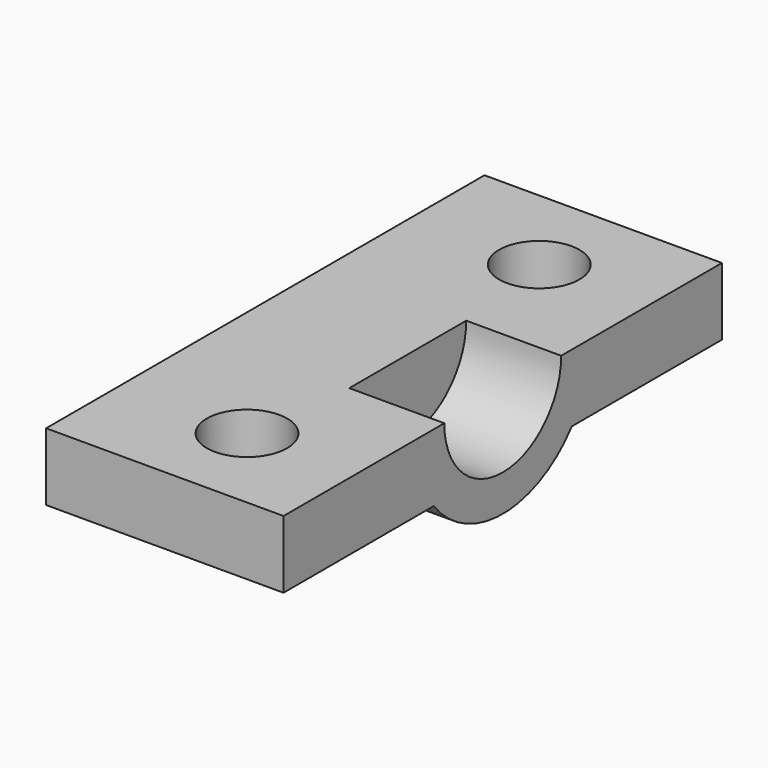
from build123d import *

# Parameters (mm, degrees)
CYLINDER073_R          = 2.2
CYLINDER073_DEPTH      = 20
CYLINDER074_R          = 2.2
CYLINDER074_DEPTH      = 20
CYLINDER072_R          = 4
CYLINDER072_DEPTH      = 6.5
CYLINDER071_W          = 6
CYLINDER071_H          = 11
CYLINDER071_ANGLE      = 180
BOX054_W               = 30
BOX054_H               = 3.7
BOX054_DEPTH           = 13
CUT083_ROLL_ANGLE      = 90
CUT083_PLACEMENT_ANGLE = 90


with BuildPart() as zylinder062:
    # Cylinder073 → Cylinder073 (new body)
    with BuildSketch(Plane(origin=(-10, 9, 5), x_dir=(1, 0, 0), z_dir=(0, -1, 0))):
        Circle(CYLINDER073_R)
    extrude(amount=CYLINDER073_DEPTH)


with BuildPart() as zylinder063:
    # Cylinder074 → Cylinder074 (new body)
    with BuildSketch(Plane(origin=(10, 9, 5), x_dir=(1, 0, 0), z_dir=(0, -1, 0))):
        Circle(CYLINDER074_R)
    extrude(amount=CYLINDER074_DEPTH)


with BuildPart() as zylinder061:
    # Cylinder072 → Cylinder072 (new body)
    with BuildSketch(Plane.XY.offset(5.8)):
        Circle(CYLINDER072_R)
    extrude(amount=CYLINDER072_DEPTH)


with BuildPart() as zylinder060:
    # Cylinder071 → Cylinder071 (revolve)
    with BuildSketch(Plane(origin=(0, 0, 0), x_dir=(-1, 0, 0), z_dir=(0, 1, 0))):
        with Locations((3, 5.5)):
            Rectangle(CYLINDER071_W, CYLINDER071_H)
    revolve(axis=Axis((0, 0, 0), (0, 0, 1)), revolution_arc=CYLINDER071_ANGLE)


with BuildPart() as y_drive_mount_top001:
    # Box054 → Box054 (new body)
    with BuildSketch(Plane(origin=(-15, -3.7, -2), x_dir=(1, 0, 0), z_dir=(0, 0, 1))):
        with Locations((15, 1.85)):
            Rectangle(BOX054_W, BOX054_H)
    extrude(amount=BOX054_DEPTH)

    # Fusion041: union Zylinder060
    add(zylinder060.part)

    # Cut081: cut Zylinder061
    add(zylinder061.part, mode=Mode.SUBTRACT)

    # Cut082: cut Zylinder063
    add(zylinder063.part, mode=Mode.SUBTRACT)

    # Cut083: cut Zylinder062
    add(zylinder062.part, mode=Mode.SUBTRACT)


with BuildPart() as y_drive_mount_top001_1:
    # Cut083 roll: moved
    add(y_drive_mount_top001.part.rotate(Axis((0, 0, 0), (1, 0, 0)), CUT083_ROLL_ANGLE))


with BuildPart() as y_drive_mount_top001_2:
    # Cut083 placement: moved
    add(y_drive_mount_top001_1.part.moved(Location((-32.75, 18.85, 53.2))).rotate(Axis((-32.75, 18.85, 53.2), (0, 0, 1)), CUT083_PLACEMENT_ANGLE))


solid = y_drive_mount_top001_2.part
